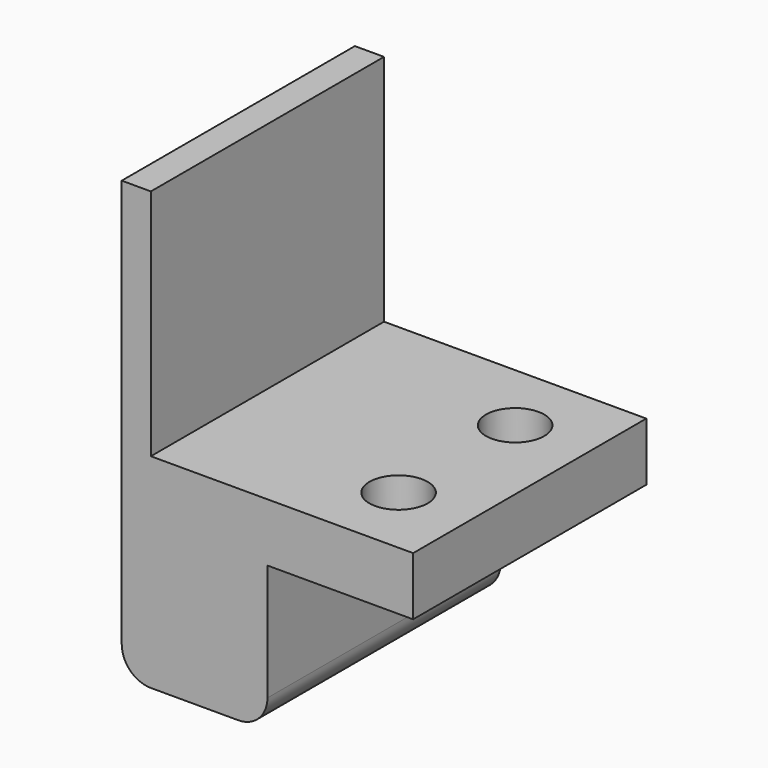
from build123d import *

# Parameters (mm, degrees)
F1_DEPTH = 20
F2_R     = 2
F3_DEPTH = 25
F4_R     = 2
F5_R     = 2


with BuildPart() as f1:
    # F0 (on Front) → F1 (new body)
    with BuildSketch(Plane.XZ):
        Polygon((18, 0), (0, 0), (0, 16), (-2, 16), (-2, -14), (8, -14), (8, -4), (18, -4), align=None)
    extrude(amount=F1_DEPTH)

    # F2 (on face) → F3 (cut)
    with BuildSketch(Plane(origin=(0, 0, -4), x_dir=(1, 0, 0), z_dir=(0, 0, -1))):
        with Locations((13, 15)):
            Circle(F2_R)
        with Locations((13, 5)):
            Circle(F2_R)
    extrude(amount=-F3_DEPTH, mode=Mode.SUBTRACT)

    # F4
    f4_edges = [f1.edges().sort_by_distance(p)[0] for p in [
        (-2, -10, -14),
    ]]
    fillet(f4_edges, radius=F4_R)

    # F5
    f5_edges = [f1.edges().sort_by_distance(p)[0] for p in [
        (8, -10, -14),
    ]]
    fillet(f5_edges, radius=F5_R)


solid = f1.part
